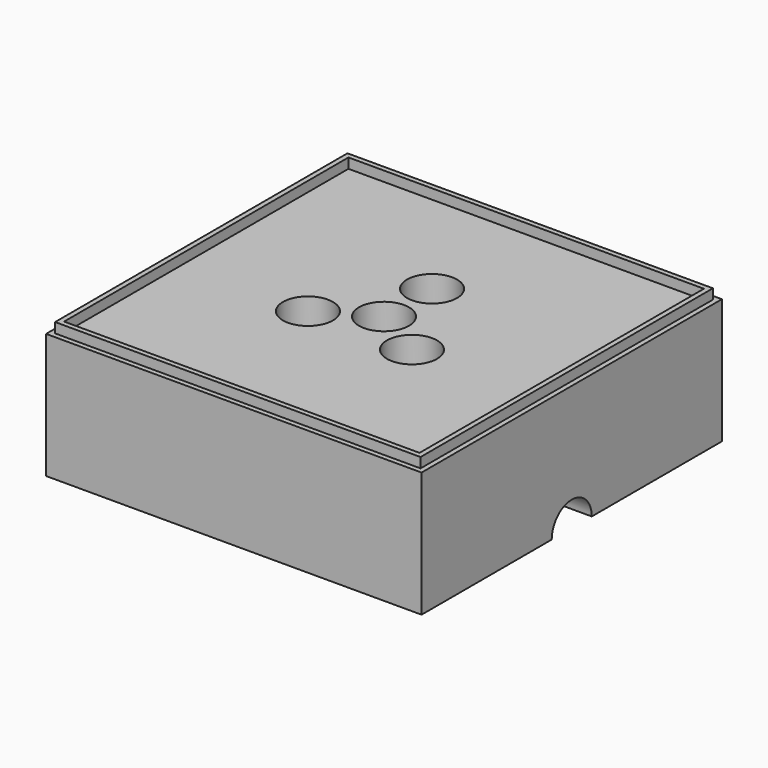
from build123d import *

# Parameters (mm, degrees)
F0_W      = 75
F0_H      = 75
F1_DEPTH  = 25
F2_W      = 73
F2_H      = 73
F2_W_2    = 71
F2_H_2    = 71
F3_DEPTH  = 2
F4_R      = 3
F5_DEPTH  = 20
F6_R      = 5
F7_DEPTH  = 11.5
F8_W      = 50
F8_H      = 50
F9_DEPTH  = 10
F10_R     = 5
F11_DEPTH = 15


with BuildPart() as f1:
    # F0 (on Top) → F1 (new body)
    with BuildSketch(Plane.XY):
        Rectangle(F0_W, F0_H)
    extrude(amount=F1_DEPTH)

    # F2 (on face) → F3 (join)
    with BuildSketch(Plane.XY.offset(25)):
        Rectangle(F2_W, F2_H)
        Rectangle(F2_W_2, F2_H_2, mode=Mode.SUBTRACT)
    extrude(amount=F3_DEPTH)

    # F4 (on face) → F5 (cut)
    with BuildSketch(Plane.XY.offset(25)):
        with BuildLine():
            ThreePointArc((0, 3), (-2.12132, -2.12132), (3, 0))
            ThreePointArc((3, 0), (2.12132, 2.12132), (0, 3))
        make_face()
        with BuildLine():
            ThreePointArc((3, 12), (-2.12132, 14.12132), (0, 9))
            ThreePointArc((0, 9), (2.12132, 9.87868), (3, 12))
        make_face()
        with Locations((-10.392305, -6)):
            Circle(F4_R)
        with Locations((10.392305, -6)):
            Circle(F4_R)
    extrude(amount=-F5_DEPTH, mode=Mode.SUBTRACT)

    # F6 (on face) → F7 (cut)
    with BuildSketch(Plane.XY.offset(25)):
        Circle(F6_R)
        with Locations((0, 12)):
            Circle(F6_R)
        with Locations((-10.392305, -6)):
            Circle(F6_R)
        with Locations((10.392305, -6)):
            Circle(F6_R)
    extrude(amount=-F7_DEPTH, mode=Mode.SUBTRACT)

    # F8 (on face) → F9 (cut)
    with BuildSketch(Plane(origin=(0, 0, 0), x_dir=(1, 0, 0), z_dir=(0, 0, -1))):
        Rectangle(F8_W, F8_H)
    extrude(amount=-F9_DEPTH, mode=Mode.SUBTRACT)

    # F10 (on face) → F11 (cut)
    with BuildSketch(Plane.YZ.offset(37.5)):
        Circle(F10_R)
    extrude(amount=-F11_DEPTH, mode=Mode.SUBTRACT)


solid = f1.part
